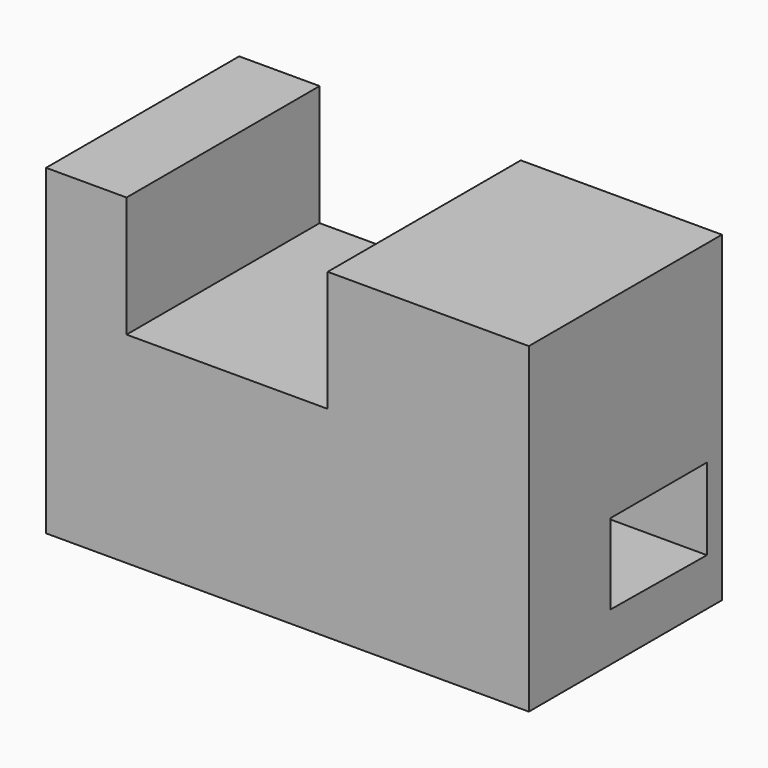
from build123d import *

# Parameters (mm, degrees)
F1_DEPTH = 762
F3_DEPTH = 1524.001


with BuildPart() as f1:
    # F0 (on Front) → F1 (new body)
    with BuildSketch(Plane.XZ):
        Polygon((-1524, 0), (0, 0), (0, 1016), (-635, 1016), (-635, 635), (-1270, 635), (-1270, 1016), (-1524, 1016), align=None)
    extrude(amount=F1_DEPTH)

    # F2 (on face) → F3 (cut, through all)
    with BuildSketch(Plane(origin=(-1524, 0, 0), x_dir=(0, -1, 0), z_dir=(-1, 0, 0))):
        Polygon((59.202836, 406.936526), (59.202836, 149.375935), (440.186198, 152.936526), (440.186198, 406.936526), align=None)
    extrude(amount=-F3_DEPTH, mode=Mode.SUBTRACT)


solid = f1.part
